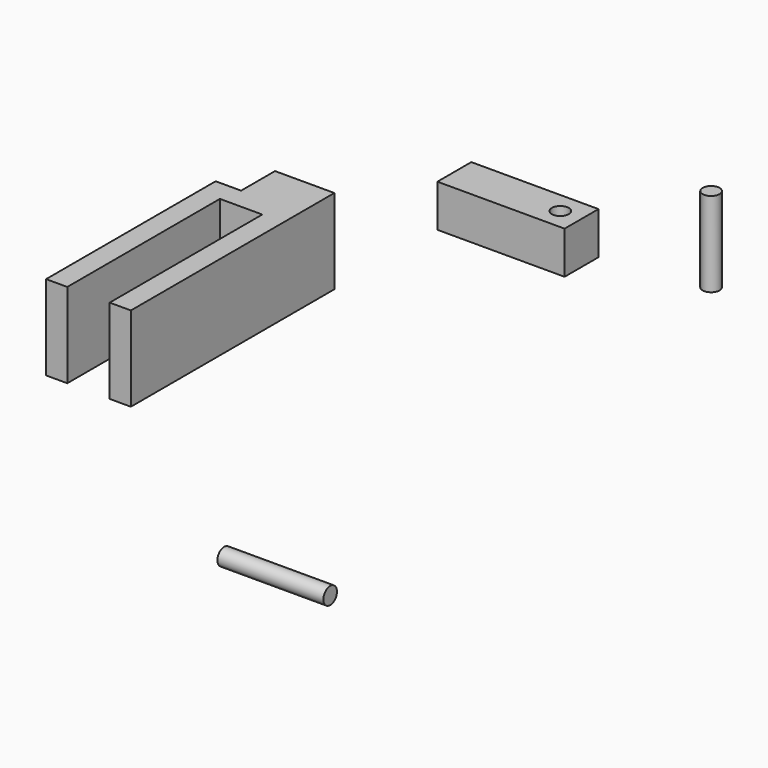
from build123d import *

# Parameters (mm, degrees)
F0_W      = 20
F0_H      = 20
F1_DEPTH  = 60
F2_W      = 10
F2_H      = 20
F3_DEPTH  = 45
F4_W      = 10
F4_H      = 10
F5_DEPTH  = 30
F6_R      = 2
F7_DEPTH  = 10.001
F8_R      = 2
F9_DEPTH  = 25
F10_R     = 2
F11_DEPTH = 10
F12_W     = 10
F12_H     = 6
F13_DEPTH = 6
F14_R     = 2
F15_DEPTH = 20


with BuildPart() as f1:
    # F0 (on Front) → F1 (new body)
    with BuildSketch(Plane.XZ):
        with Locations((-10, 10)):
            Rectangle(F0_W, F0_H)
    extrude(amount=F1_DEPTH)

    # F2 (on face) → F3 (cut)
    with BuildSketch(Plane.XZ.offset(60)):
        with Locations((-10, 10)):
            Rectangle(F2_W, F2_H)
    extrude(amount=-F3_DEPTH, mode=Mode.SUBTRACT)

    # F10 (on face) → F11 (cut)
    with BuildSketch(Plane(origin=(0, 0, 0), x_dir=(-1, 0, 0), z_dir=(0, 1, 0))):
        with Locations((10, 10)):
            Circle(F10_R)
    extrude(amount=-F11_DEPTH, mode=Mode.SUBTRACT)

    # F12 (on face) → F13 (cut)
    with BuildSketch(Plane(origin=(-20, 0, 0), x_dir=(0, -1, 0), z_dir=(-1, 0, 0))):
        with Locations((5, 17)):
            Rectangle(F12_W, F12_H)
    extrude(amount=-F13_DEPTH, mode=Mode.SUBTRACT)


with BuildPart() as f5:
    # F4 (on Right) → F5 (new body)
    with BuildSketch(Plane.YZ):
        with Locations((35.384615, 5)):
            Rectangle(F4_W, F4_H)
    extrude(amount=F5_DEPTH)

    # F6 (on face) → F7 (cut, through all)
    with BuildSketch(Plane.XY.offset(10)):
        with Locations((25, 35.384615)):
            Circle(F6_R)
    extrude(amount=-F7_DEPTH, mode=Mode.SUBTRACT)


with BuildPart() as f9:
    # F8 (on Right) → F9 (new body)
    with BuildSketch(Plane.YZ):
        with Locations((-32.481715, -42.253371)):
            Circle(F8_R)
    extrude(amount=F9_DEPTH)


with BuildPart() as f15:
    # F14 (on Top) → F15 (new body)
    with BuildSketch(Plane.XY):
        with Locations((53.686704, 43.971695)):
            Circle(F14_R)
    extrude(amount=F15_DEPTH)


solid = Compound([f1.part, f5.part, f9.part, f15.part])
